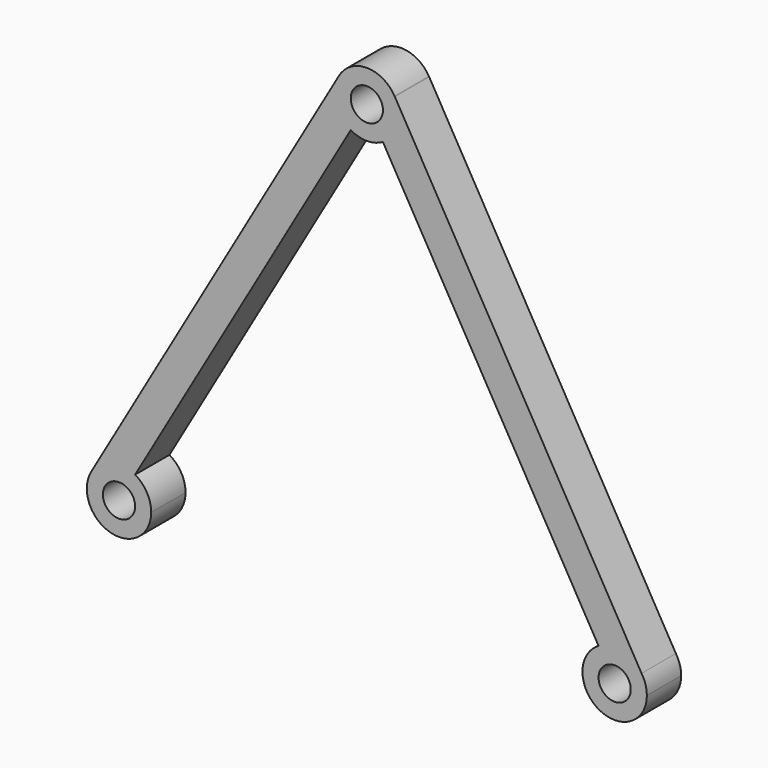
from build123d import *

# Parameters (mm, degrees)
F0_R     = 15
F1_DEPTH = 40


with BuildPart() as f1:
    # F0 (on Front) → F1 (new body)
    with BuildSketch(Plane.XZ):
        with BuildLine():
            ThreePointArc((-256.753546, -118.047183), (-238.543696, -104.312902), (-215.938727, -107.353369))
            Line((-215.938727, -107.353369), (-15, 240.685905))
            ThreePointArc((-15, 240.685905), (-28.977759, 258.902038), (-25.980822, 281.666564))
            Line((-25.980822, 281.666564), (-256.753546, -118.047183))
        make_face()
        with BuildLine():
            ThreePointArc((-257.085138, -118.621523), (-238.544353, -162.353593), (-200.940108, -133.333333))
            ThreePointArc((-200.940108, -133.333333), (-204.958947, -118.334024), (-215.938727, -107.353369))
            ThreePointArc((-215.938727, -107.353369), (-238.543696, -104.312902), (-256.753546, -118.047183))
            Line((-256.753546, -118.047183), (-257.085138, -118.621523))
        make_face()
        with Locations((-230.940108, -133.333333)):
            Circle(F0_R, mode=Mode.SUBTRACT)
        with BuildLine():
            ThreePointArc((-25.980822, 281.666564), (-28.977759, 258.902038), (-15, 240.685905))
            ThreePointArc((-15, 240.685905), (0, 236.666667), (15, 240.685905))
            ThreePointArc((15, 240.685905), (25.980762, 251.666667), (30, 266.666667))
            ThreePointArc((30, 266.666667), (29.009026, 274.313652), (26.101574, 281.45544))
            Line((26.101574, 281.45544), (25.861625, 281.871151))
            ThreePointArc((25.861625, 281.871151), (-0.118389, 296.666433), (-25.980822, 281.666564))
        make_face()
        with Locations((0, 266.666667)):
            Circle(F0_R, mode=Mode.SUBTRACT)
        with BuildLine():
            Line((15, 240.685905), (215.940108, -107.352571))
            ThreePointArc((215.940108, -107.352571), (237.846883, -104.139217), (255.991519, -116.827977))
            Line((255.991519, -116.827977), (26.101574, 281.45544))
            ThreePointArc((26.101574, 281.45544), (29.009026, 274.313652), (30, 266.666667))
            ThreePointArc((30, 266.666667), (25.980762, 251.666667), (15, 240.685905))
        make_face()
        with BuildLine():
            ThreePointArc((215.940108, -107.352571), (204.959346, -118.333333), (200.940108, -133.333333))
            ThreePointArc((200.940108, -133.333333), (209.740351, -154.559975), (230.978128, -163.333309))
            ThreePointArc((230.978128, -163.333309), (252.166749, -154.53309), (260.940108, -133.333333))
            ThreePointArc((260.940108, -133.333333), (259.676342, -124.717718), (255.991519, -116.827977))
            ThreePointArc((255.991519, -116.827977), (237.846883, -104.139217), (215.940108, -107.352571))
        make_face()
        with Locations((230.940108, -133.333333)):
            Circle(F0_R, mode=Mode.SUBTRACT)
    extrude(amount=F1_DEPTH)


solid = f1.part
